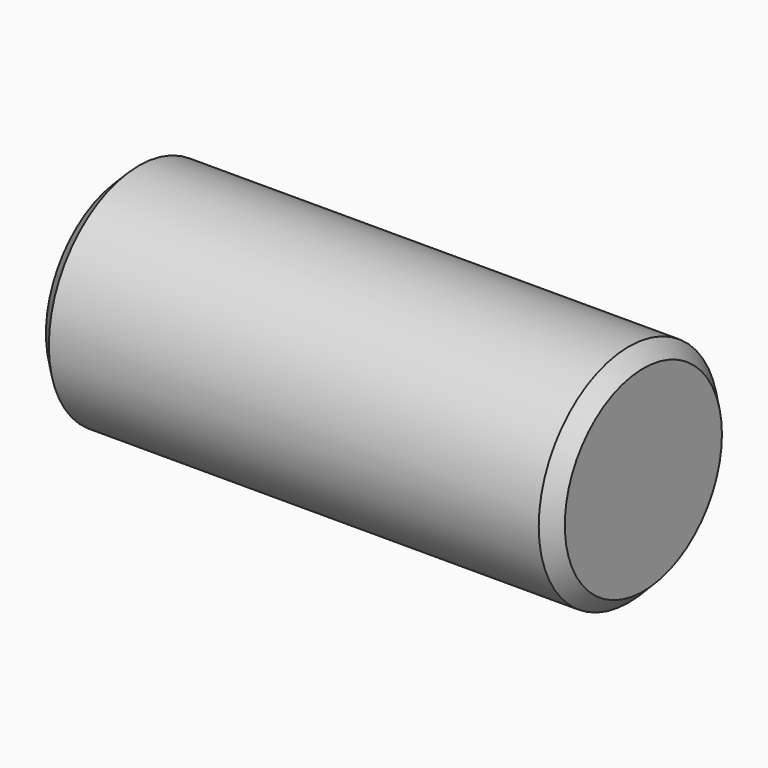
from build123d import *

# Parameters (mm, degrees)
F0_R     = 1.97485
F1_DEPTH = 9.0932
F2_SIZE2 = 0.254
F2_SIZE  = 0.254
F3_SIZE2 = 0.254
F3_SIZE  = 0.254


with BuildPart() as f1:
    # F0 (on Right) → F1 (new body)
    with BuildSketch(Plane.YZ):
        Circle(F0_R)
    extrude(amount=-F1_DEPTH)

    # F2
    f2_edges = [f1.edges().sort_by_distance(p)[0] for p in [
        (0, -1.97485, 0),
    ]]
    chamfer(f2_edges, length=F2_SIZE, length2=F2_SIZE2)

    # F3
    f3_edges = [f1.edges().sort_by_distance(p)[0] for p in [
        (-9.0932, -1.97485, 0),
    ]]
    chamfer(f3_edges, length=F3_SIZE, length2=F3_SIZE2)


solid = f1.part
